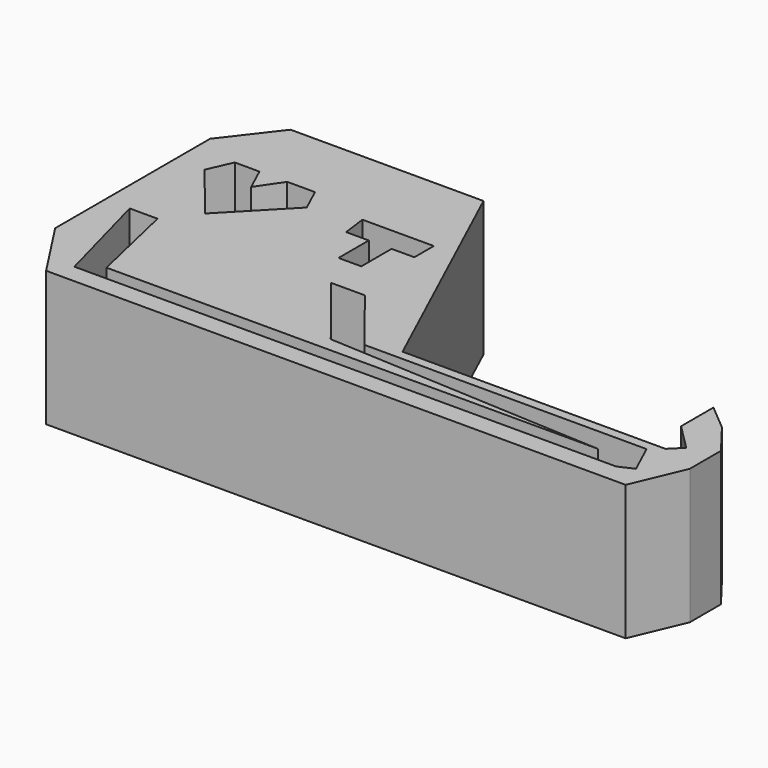
from build123d import *

# Parameters (mm, degrees)
F1_DEPTH = 25.4


with BuildPart() as f1:
    # F0 (on Top) → F1 (new body)
    with BuildSketch(Plane.XY):
        Polygon((-24.0792, 34.290001), (-60.350399, 34.290001), (-67.761458, 24.655646), (-67.761458, -11.726021), (-60.350399, -23.129791), (48.551362, -23.129791), (52.7304, -13.2588), (52.7304, -5.9436), (48.1584, 0), (43.2816, 4.1148), (43.2816, -3.5052), (48.1584, -8.382), (45.998619, -10.54178), (-3.432985, -10.54178), align=None)
        Polygon((-57.912, -19.534851), (-63.144549, 0), (-57.912, 0), (-54.045353, -16.82521), (38.240661, -16.736207), (-14.135674, -14.026972), (-25.280462, -0.006108), (-18.946942, 0), (-9.141184, -12.336277), (43.86873, -12.336277), (46.566502, -18.194295), (43.86873, -19.43669), align=None, mode=Mode.SUBTRACT)
        Polygon((-62.263511, 16.462522), (-60.232367, 21.044958), (-55.59146, 21.044958), (-53.481128, 16.462522), (-50.370198, 21.045681), (-45.148745, 21.045681), (-43.03808, 16.462522), (-53.481128, 5.661911), align=None, mode=Mode.SUBTRACT)
        Polygon((-33.659617, 13.975172), (-34.229498, 18.544318), (-20.831046, 18.55724), (-20.826635, 13.983417), (-25.107411, 13.979289), (-25.100542, 6.856575), (-29.384067, 6.852444), (-29.39094, 13.979289), align=None, mode=Mode.SUBTRACT)
    extrude(amount=F1_DEPTH)


solid = f1.part
